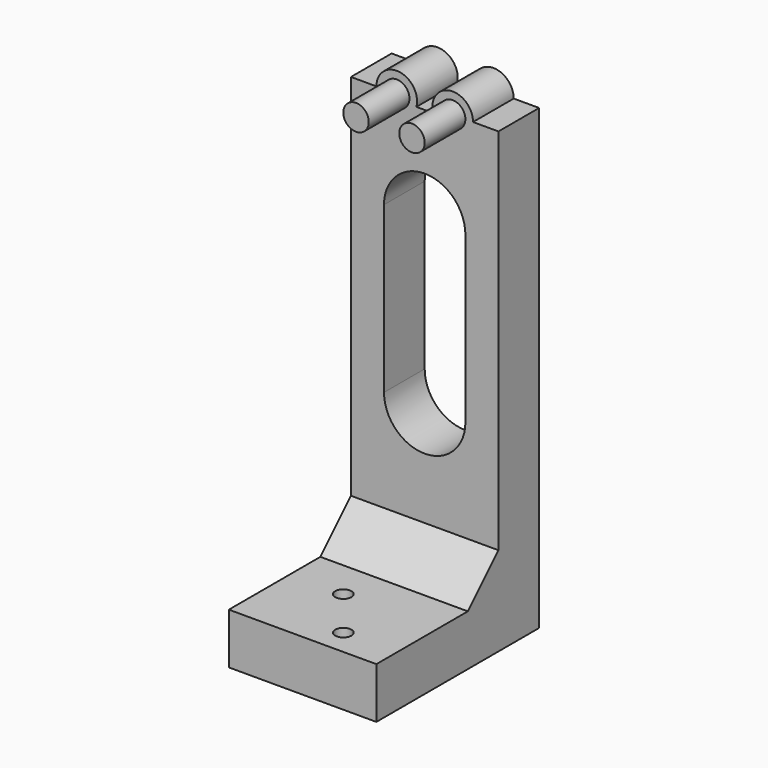
from build123d import *

# Parameters (mm, degrees)
PAD007_DEPTH         = 10
SKETCH017_W          = 29
SKETCH017_H          = 10
PAD008_DEPTH         = 30
SKETCH018_R          = 1.6
POCKET007_DEPTH      = 0.001
POCKET007_DEPTH_BACK = 94.001
PAD009_DEPTH         = 29
SKETCH020_R          = 2.5
PAD010_DEPTH         = 10
POCKET008_DEPTH      = 10.001


with BuildPart() as part:
    # Sketch016 → Pad007 (new body)
    with BuildSketch(Plane.XZ):
        with BuildLine():
            ThreePointArc((9.5, 90), (4.995983, 93.968119), (1.627017, 89))
            Line((-1.627017, 89), (1.627017, 89))
            ThreePointArc((-1.627017, 89), (-4.995983, 93.968119), (-9.5, 90))
            Line((-9.5, 90), (-14.5, 90))
            Line((-14.5, 90), (-14.5, 0))
            Line((-14.5, 0), (14.5, 0))
            Line((14.5, 90), (14.5, 0))
            Line((9.5, 90), (14.5, 90))
        make_face()
        Polygon((9.5, 90), (14.5, 90), align=None)
    extrude(amount=PAD007_DEPTH)

    # Sketch017 (on Face10 of Pad007) → Pad008 (join)
    with BuildSketch(Plane.XZ.offset(10)):
        with Locations((0, 5)):
            Rectangle(SKETCH017_W, SKETCH017_H)
    extrude(amount=PAD008_DEPTH)

    # Sketch018 → Pocket007 (cut, two sides)
    with BuildSketch(Plane.XY) as pocket007_sk:
        with Locations((-4, -25)):
            Circle(SKETCH018_R)
        with Locations((4, -35)):
            Circle(SKETCH018_R)
    extrude(amount=-POCKET007_DEPTH, mode=Mode.SUBTRACT)
    extrude(pocket007_sk.sketch, amount=POCKET007_DEPTH_BACK, mode=Mode.SUBTRACT)

    # Sketch019 (on Face3 of Pocket007) → Pad009 (join)
    with BuildSketch(Plane(origin=(14.5, 0, 0), x_dir=(0, 0, 1), z_dir=(1, 0, 0))):
        Polygon((10, 17.517339), (17.517341, 10), (10, 10), align=None)
    extrude(amount=-PAD009_DEPTH)

    # Sketch020 (on Face4 of Pad009) → Pad010 (join)
    with BuildSketch(Plane.XZ.offset(10)):
        with Locations((-5.5, 90)):
            Circle(SKETCH020_R)
        with Locations((5.5, 90)):
            Circle(SKETCH020_R)
    extrude(amount=PAD010_DEPTH)

    # Sketch021 (on Face5 of Pad010) → Pocket008 (cut, through all)
    with BuildSketch(Plane.XZ.offset(10)):
        with BuildLine():
            ThreePointArc((8, 70), (0, 78), (-8, 70))
            Line((-8, 70), (-8, 37.517341))
            ThreePointArc((-8, 37.517341), (0, 29.517341), (8, 37.517341))
            Line((8, 70), (8, 37.517341))
        make_face()
    extrude(amount=-POCKET008_DEPTH, mode=Mode.SUBTRACT)


solid = part.part
